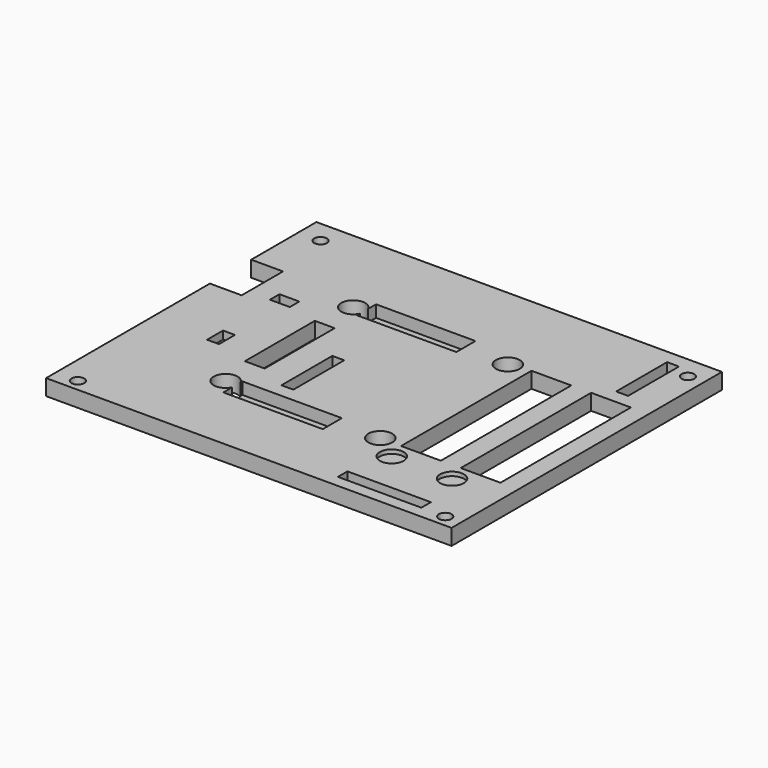
from build123d import *

# Parameters (mm, degrees)
CYLINDER010_R          = 1.6
CYLINDER010_DEPTH      = 10
CYLINDER012_R          = 1.6
CYLINDER012_DEPTH      = 10
CYLINDER011_R          = 1.6
CYLINDER011_DEPTH      = 10
CYLINDER013_R          = 1.6
CYLINDER013_DEPTH      = 10
BOX014_W               = 16
BOX014_H               = 3
BOX014_DEPTH           = 4
BOX014_PLACEMENT_ANGLE = 90
BOX018_W               = 5
BOX018_H               = 3
BOX018_DEPTH           = 3
BOX018_PLACEMENT_ANGLE = 90
BOX013_W               = 16
BOX013_H               = 3
BOX013_DEPTH           = 4
BOX013_PLACEMENT_ANGLE = 90
BOX015_W               = 25
BOX015_H               = 6
BOX015_DEPTH           = 4
BOX016_W               = 25
BOX016_H               = 6
BOX016_DEPTH           = 4
BOX017_W               = 5
BOX017_H               = 3
BOX017_DEPTH           = 3
CYLINDER004_R          = 3
CYLINDER004_DEPTH      = 2
CYLINDER005_R          = 3
CYLINDER005_DEPTH      = 2
CYLINDER008_R          = 1.6
CYLINDER008_DEPTH      = 10
CYLINDER007_R          = 1.6
CYLINDER007_DEPTH      = 10
CYLINDER009_R          = 1.6
CYLINDER009_DEPTH      = 10
CYLINDER006_R          = 1.6
CYLINDER006_DEPTH      = 10
BOX012_W               = 21
BOX012_H               = 3
BOX012_DEPTH           = 4
CYLINDER001_R          = 3
CYLINDER001_DEPTH      = 10
CYLINDER002_R          = 3
CYLINDER002_DEPTH      = 10
CYLINDER_R             = 3
CYLINDER_DEPTH         = 10
CYLINDER003_R          = 3
CYLINDER003_DEPTH      = 10
BOX011_W               = 5
BOX011_H               = 22
BOX011_DEPTH           = 10
BOX009_W               = 10
BOX009_H               = 41
BOX009_DEPTH           = 10
BOX010_W               = 10
BOX010_H               = 41
BOX010_DEPTH           = 10
BOX006_W               = 17
BOX006_H               = 13
BOX006_DEPTH           = 10
BOX_W                  = 102
BOX_H                  = 85
BOX_DEPTH              = 4
CUT004_PLACEMENT_ANGLE = 180


with BuildPart() as cylinder010:
    # Cylinder010 → Cylinder010 (new body)
    with BuildSketch(Plane(origin=(3.6, 5.69, 0), x_dir=(1, 0, 0), z_dir=(0, 0, 1))):
        Circle(CYLINDER010_R)
    extrude(amount=CYLINDER010_DEPTH)


with BuildPart() as cylinder012:
    # Cylinder012 → Cylinder012 (new body)
    with BuildSketch(Plane(origin=(96, 5.69, 0), x_dir=(1, 0, 0), z_dir=(0, 0, 1))):
        Circle(CYLINDER012_R)
    extrude(amount=CYLINDER012_DEPTH)


with BuildPart() as cylinder011:
    # Cylinder011 → Cylinder011 (new body)
    with BuildSketch(Plane(origin=(3.6, 82, 0), x_dir=(1, 0, 0), z_dir=(0, 0, 1))):
        Circle(CYLINDER011_R)
    extrude(amount=CYLINDER011_DEPTH)


with BuildPart() as cylinder013:
    # Cylinder013 → Cylinder013 (new body)
    with BuildSketch(Plane(origin=(96, 82, 0), x_dir=(1, 0, 0), z_dir=(0, 0, 1))):
        Circle(CYLINDER013_R)
    extrude(amount=CYLINDER013_DEPTH)


with BuildPart() as pins_sd_card_reader:
    # Box014 → Box014 (new body)
    with BuildSketch(Plane.XY):
        with Locations((8, 1.5)):
            Rectangle(BOX014_W, BOX014_H)
    extrude(amount=BOX014_DEPTH)


with BuildPart() as pins_sd_card_reader_1:
    # Box014 placement: moved
    add(pins_sd_card_reader.part.moved(Location((39, 42.5, 0))).rotate(Axis((39, 42.5, 0), (0, 0, 1)), BOX014_PLACEMENT_ANGLE))


with BuildPart() as smd_capacitor:
    # Box018 → Box018 (new body)
    with BuildSketch(Plane.XY):
        with Locations((2.5, 1.5)):
            Rectangle(BOX018_W, BOX018_H)
    extrude(amount=BOX018_DEPTH)


with BuildPart() as smd_capacitor_1:
    # Box018 placement: moved
    add(smd_capacitor.part.moved(Location((15.5, 47.5, 0))).rotate(Axis((15.5, 47.5, 0), (0, 0, 1)), BOX018_PLACEMENT_ANGLE))


with BuildPart() as pins_bluetooth:
    # Box013 → Box013 (new body)
    with BuildSketch(Plane.XY):
        with Locations((8, 1.5)):
            Rectangle(BOX013_W, BOX013_H)
    extrude(amount=BOX013_DEPTH)


with BuildPart() as pins_bluetooth_1:
    # Box013 placement: moved
    add(pins_bluetooth.part.moved(Location((92, 3.5, 0))).rotate(Axis((92, 3.5, 0), (0, 0, 1)), BOX013_PLACEMENT_ANGLE))


with BuildPart() as box015:
    # Box015 → Box015 (new body)
    with BuildSketch(Plane(origin=(29, 62, 0), x_dir=(1, 0, 0), z_dir=(0, 0, 1))):
        with Locations((12.5, 3)):
            Rectangle(BOX015_W, BOX015_H)
    extrude(amount=BOX015_DEPTH)


with BuildPart() as box016:
    # Box016 → Box016 (new body)
    with BuildSketch(Plane(origin=(29, 20, 0), x_dir=(1, 0, 0), z_dir=(0, 0, 1))):
        with Locations((12.5, 3)):
            Rectangle(BOX016_W, BOX016_H)
    extrude(amount=BOX016_DEPTH)


with BuildPart() as smd_resistor:
    # Box017 → Box017 (new body)
    with BuildSketch(Plane(origin=(11.5, 28.5, 0), x_dir=(1, 0, 0), z_dir=(0, 0, 1))):
        with Locations((2.5, 1.5)):
            Rectangle(BOX017_W, BOX017_H)
    extrude(amount=BOX017_DEPTH)


with BuildPart() as cylinder004:
    # Cylinder004 → Cylinder004 (new body)
    with BuildSketch(Plane(origin=(86.99, 68.6, 0), x_dir=(1, 0, 0), z_dir=(0, 0, 1))):
        Circle(CYLINDER004_R)
    extrude(amount=CYLINDER004_DEPTH)


with BuildPart() as cylinder005:
    # Cylinder005 → Cylinder005 (new body)
    with BuildSketch(Plane(origin=(71.83, 68.6, 0), x_dir=(1, 0, 0), z_dir=(0, 0, 1))):
        Circle(CYLINDER005_R)
    extrude(amount=CYLINDER005_DEPTH)


with BuildPart() as cylinder008:
    # Cylinder008 → Cylinder008 (new body)
    with BuildSketch(Plane(origin=(96, 5.69, 0), x_dir=(1, 0, 0), z_dir=(0, 0, 1))):
        Circle(CYLINDER008_R)
    extrude(amount=CYLINDER008_DEPTH)


with BuildPart() as cylinder007:
    # Cylinder007 → Cylinder007 (new body)
    with BuildSketch(Plane(origin=(3.6, 82, 0), x_dir=(1, 0, 0), z_dir=(0, 0, 1))):
        Circle(CYLINDER007_R)
    extrude(amount=CYLINDER007_DEPTH)


with BuildPart() as cylinder009:
    # Cylinder009 → Cylinder009 (new body)
    with BuildSketch(Plane(origin=(96, 82, 0), x_dir=(1, 0, 0), z_dir=(0, 0, 1))):
        Circle(CYLINDER009_R)
    extrude(amount=CYLINDER009_DEPTH)


with BuildPart() as board_holes:
    # Cylinder006 → Cylinder006 (new body)
    with BuildSketch(Plane(origin=(3.6, 5.69, 0), x_dir=(1, 0, 0), z_dir=(0, 0, 1))):
        Circle(CYLINDER006_R)
    extrude(amount=CYLINDER006_DEPTH)

    # Fusion004: union Cylinder008, Cylinder007, Cylinder009
    add(cylinder008.part)
    add(cylinder007.part)
    add(cylinder009.part)


with BuildPart() as obj1:
    # Box012 → Box012 (new body)
    with BuildSketch(Plane(origin=(69, 79, 0), x_dir=(1, 0, 0), z_dir=(0, 0, 1))):
        with Locations((10.5, 1.5)):
            Rectangle(BOX012_W, BOX012_H)
    extrude(amount=BOX012_DEPTH)

    # Fusion003: union pins_sd card reader, SMD capacitor, pins_bluetooth, Box015, Box016, SMD resistor, Cylinder004, Cylinder005, board holes
    add(pins_sd_card_reader_1.part)
    add(smd_capacitor_1.part)
    add(pins_bluetooth_1.part)
    add(box015.part)
    add(box016.part)
    add(smd_resistor.part)
    add(cylinder004.part)
    add(cylinder005.part)
    add(board_holes.part)

    # Fusion005: union Cylinder010, Cylinder012, Cylinder011, Cylinder013
    add(cylinder010.part)
    add(cylinder012.part)
    add(cylinder011.part)
    add(cylinder013.part)


with BuildPart() as cylinder001:
    # Cylinder001 → Cylinder001 (new body)
    with BuildSketch(Plane(origin=(26.3, 63.91, 0), x_dir=(1, 0, 0), z_dir=(0, 0, 1))):
        Circle(CYLINDER001_R)
    extrude(amount=CYLINDER001_DEPTH)


with BuildPart() as cylinder002:
    # Cylinder002 → Cylinder002 (new body)
    with BuildSketch(Plane(origin=(65.19, 23.81, 0), x_dir=(1, 0, 0), z_dir=(0, 0, 1))):
        Circle(CYLINDER002_R)
    extrude(amount=CYLINDER002_DEPTH)


with BuildPart() as cylinder:
    # Cylinder → Cylinder (new body)
    with BuildSketch(Plane(origin=(26.3, 23.81, 0), x_dir=(1, 0, 0), z_dir=(0, 0, 1))):
        Circle(CYLINDER_R)
    extrude(amount=CYLINDER_DEPTH)


with BuildPart() as cylinder003:
    # Cylinder003 → Cylinder003 (new body)
    with BuildSketch(Plane(origin=(65.19, 63.91, 0), x_dir=(1, 0, 0), z_dir=(0, 0, 1))):
        Circle(CYLINDER003_R)
    extrude(amount=CYLINDER003_DEPTH)


with BuildPart() as screen_holes:
    # Box011 → Box011 (new body)
    with BuildSketch(Plane(origin=(24, 33, 0), x_dir=(1, 0, 0), z_dir=(0, 0, 1))):
        with Locations((2.5, 11)):
            Rectangle(BOX011_W, BOX011_H)
    extrude(amount=BOX011_DEPTH)

    # Fusion002: union Cylinder001, Cylinder002, Cylinder, Cylinder003
    add(cylinder001.part)
    add(cylinder002.part)
    add(cylinder.part)
    add(cylinder003.part)


with BuildPart() as button_array:
    # Box009 → Box009 (new body)
    with BuildSketch(Plane(origin=(70.5, 23, 0), x_dir=(1, 0, 0), z_dir=(0, 0, 1))):
        with Locations((5, 20.5)):
            Rectangle(BOX009_W, BOX009_H)
    extrude(amount=BOX009_DEPTH)


with BuildPart() as button_arrays:
    # Box010 → Box010 (new body)
    with BuildSketch(Plane(origin=(85.5, 23, 0), x_dir=(1, 0, 0), z_dir=(0, 0, 1))):
        with Locations((5, 20.5)):
            Rectangle(BOX010_W, BOX010_H)
    extrude(amount=BOX010_DEPTH)

    # Fusion001: union button array
    add(button_array.part)


with BuildPart() as led_array_connector:
    # Box006 → Box006 (new body)
    with BuildSketch(Plane(origin=(-11, 20.5, 0), x_dir=(1, 0, 0), z_dir=(0, 0, 1))):
        with Locations((8.5, 6.5)):
            Rectangle(BOX006_W, BOX006_H)
    extrude(amount=BOX006_DEPTH)


with BuildPart() as final_top:
    # Box → Box (new body)
    with BuildSketch(Plane(origin=(-2, 0, 1), x_dir=(1, 0, 0), z_dir=(0, 0, 1))):
        with Locations((51, 42.5)):
            Rectangle(BOX_W, BOX_H)
    extrude(amount=BOX_DEPTH)

    # Cut001: cut led array connector
    add(led_array_connector.part, mode=Mode.SUBTRACT)

    # Cut002: cut button arrays
    add(button_arrays.part, mode=Mode.SUBTRACT)

    # Cut003: cut screen holes
    add(screen_holes.part, mode=Mode.SUBTRACT)

    # Cut004: cut obj1
    add(obj1.part, mode=Mode.SUBTRACT)


with BuildPart() as final_top_1:
    # Cut004 placement: moved
    add(final_top.part.moved(Location((-192, 86, 5))).rotate(Axis((-192, 86, 5), (1, 0, 0)), CUT004_PLACEMENT_ANGLE))


solid = final_top_1.part
